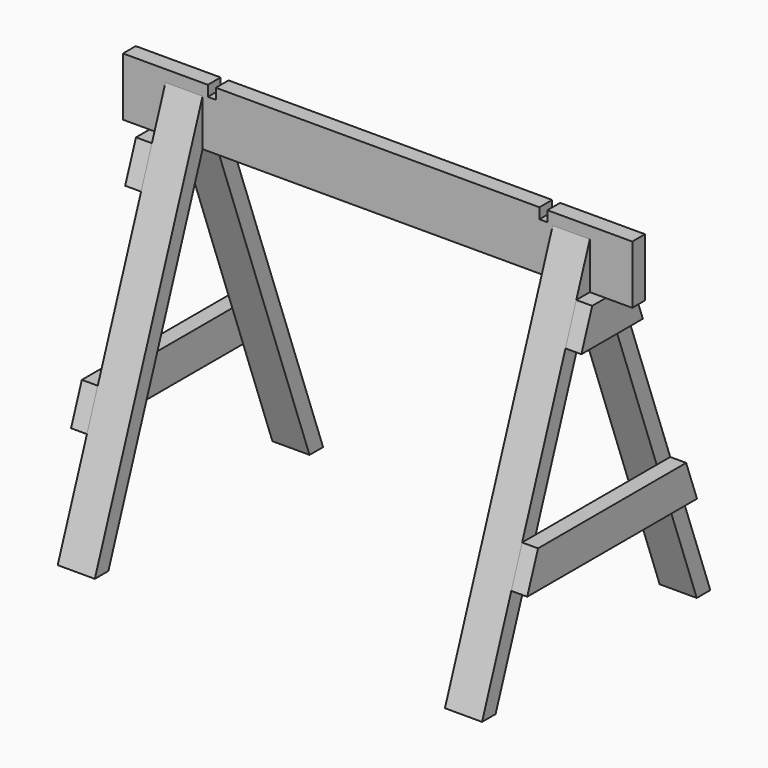
from build123d import *

# Parameters (mm, degrees)
F1_DEPTH  = 69.85
F4_W      = 19.05
F4_H      = 25.4
F5_DEPTH  = 50.8
F6_DEPTH  = 88.9
F9_DEPTH  = 38.1
F10_DEPTH = 38.1


with BuildPart() as f1:
    # F0 (on Top) → F1 (new body, symmetric)
    with BuildSketch(Plane.XY):
        Polygon((-609.6, 19.05), (-609.6, 0), (-609.6, -19.05), (609.6, -19.05), (609.6, 0), (609.6, 19.05), align=None)
    extrude(amount=F1_DEPTH, both=True)

    # F4 (on face) → F5 (cut)
    with BuildSketch(Plane.XZ.offset(19.05)):
        with Locations((-396.875, 57.15)):
            Rectangle(F4_W, F4_H)
        with Locations((396.875, 57.15)):
            Rectangle(F4_W, F4_H)
    extrude(amount=-F5_DEPTH, mode=Mode.SUBTRACT)


with BuildPart() as f6:
    # F3 (on offset) → F6 (new body)
    with BuildSketch(Plane(origin=(-508, 0, 0), x_dir=(0, -1, 0), z_dir=(-1, 0, 0))):
        Polygon((341.562914, -844.55), (19.05, 41.546948), (19.05, -69.85), (301.01774, -844.55), align=None)
    extrude(amount=-F6_DEPTH)


with BuildPart() as f7_1:
    # F7: instance of F6
    add(f6.part.mirror(Plane.XZ))


with BuildPart() as f9:
    # F8 (on face) → F9 (new body)
    with BuildSketch(Plane(origin=(-508, 0, 0), x_dir=(0, -1, 0), z_dir=(-1, 0, 0))):
        Polygon((-19.05, -69.85), (-59.595173, -69.85), (-91.952127, -158.75), (51.406954, -158.75), (19.05, -69.85), align=None)
        Polygon((19.05, -69.85), (51.406954, -158.75), (91.952127, -158.75), (59.595173, -69.85), align=None)
    extrude(amount=F9_DEPTH)


with BuildPart() as f10:
    # F8 (on face) → F10 (new body)
    with BuildSketch(Plane(origin=(-508, 0, 0), x_dir=(0, -1, 0), z_dir=(-1, 0, 0))):
        Polygon((221.643046, -515.072872), (181.097873, -515.072872), (213.454827, -603.972872), (254, -603.972872), align=None)
        Polygon((181.097873, -515.072872), (-221.643046, -515.072872), (-254, -603.972872), (213.454827, -603.972872), align=None)
    extrude(amount=F10_DEPTH)


with BuildPart() as f11_1:
    # F11: instance of F7_1
    add(f7_1.part.mirror(Plane.YZ))


with BuildPart() as f11_2:
    # F11: instance of F9
    add(f9.part.mirror(Plane.YZ))


with BuildPart() as f11_3:
    # F11: instance of F6
    add(f6.part.mirror(Plane.YZ))


with BuildPart() as f11_4:
    # F11: instance of F10
    add(f10.part.mirror(Plane.YZ))


solid = Compound([f1.part, f6.part, f7_1.part, f9.part, f10.part, f11_1.part, f11_2.part, f11_3.part, f11_4.part])
